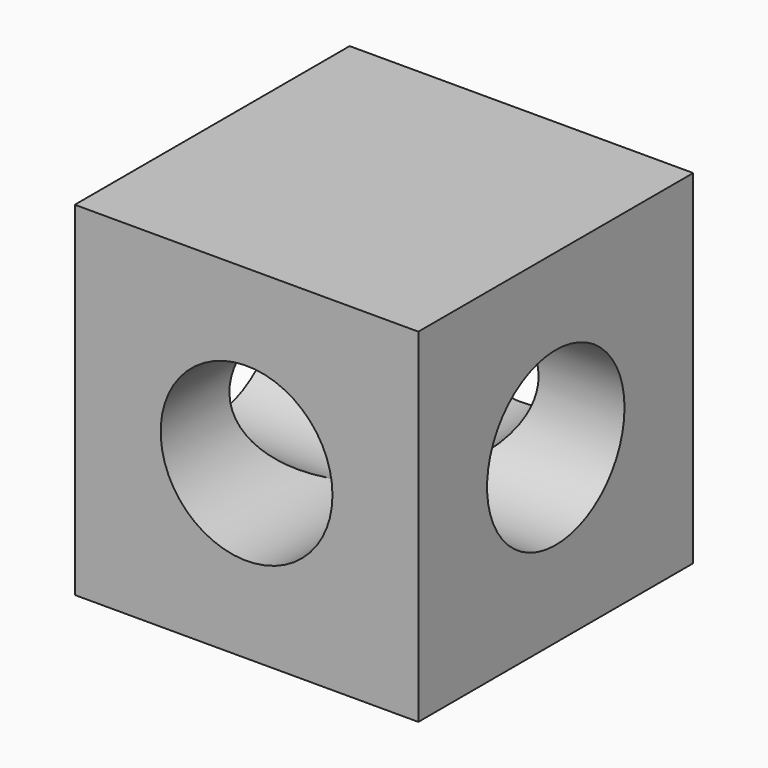
from build123d import *

# Parameters (mm, degrees)
F0_W     = 76.2
F0_H     = 76.2
F1_DEPTH = 76.2
F2_R     = 19.05
F3_DEPTH = 76.201
F4_R     = 19.05
F5_DEPTH = 76.2


with BuildPart() as f1:
    # F0 (on Front) → F1 (new body)
    with BuildSketch(Plane.XZ):
        with Locations((38.1, 38.1)):
            Rectangle(F0_W, F0_H)
    extrude(amount=F1_DEPTH)

    # F2 (on face) → F3 (cut, through all)
    with BuildSketch(Plane.YZ.offset(76.2)):
        with Locations((-38.1, 38.1)):
            Circle(F2_R)
    extrude(amount=-F3_DEPTH, mode=Mode.SUBTRACT)

    # F4 (on face) → F5 (cut)
    with BuildSketch(Plane.XZ.offset(76.2)):
        with Locations((38.1, 38.1)):
            Circle(F4_R)
    extrude(amount=-F5_DEPTH, mode=Mode.SUBTRACT)


solid = f1.part
